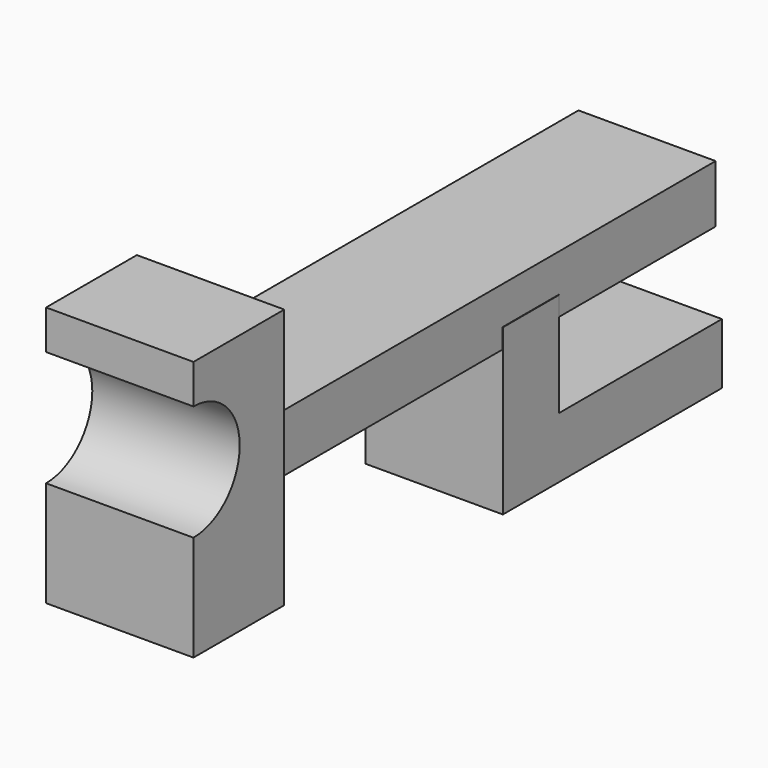
from build123d import *

# Parameters (mm, degrees)
F0_W      = 1114.6509647369
F0_H      = 96.1142629385
F1_DEPTH  = 228.5858858377
F2_W      = 117.198035121
F2_H      = 274.5957672596
F3_DEPTH  = 229.3333578855
F4_W      = 229.3333578855
F4_H      = 456.3540816307
F5_DEPTH  = 101.281305775
F6_W      = 189.0553534031
F6_H      = 433.8834732771
F7_DEPTH  = 245.6944454461
F8_R      = 96.273971764
F9_DEPTH  = 484.469877556
F11_D     = 12.7
F11_DEPTH = 12.7
F11_TIP   = 3.8154649308


with BuildPart() as f1:
    # F0 (on Right) → F1 (new body)
    with BuildSketch(Plane.YZ):
        with Locations((-113.2168769836, 15.1985660195)):
            Rectangle(F0_W, F0_H)
    extrude(amount=F1_DEPTH)

    # F2 (on Right) → F3 (join)
    with BuildSketch(Plane.YZ):
        with Locations((58.5990175605, -137.2978836298)):
            Rectangle(F2_W, F2_H)
    extrude(amount=F3_DEPTH)

    # F4 (on face) → F5 (join)
    with BuildSketch(Plane(origin=(0, 0, -274.5957672596), x_dir=(1, 0, 0), z_dir=(0, 0, -1))):
        with Locations((114.6666789427, -228.1770408154)):
            Rectangle(F4_W, F4_H)
    extrude(amount=-F5_DEPTH)

    # F6 (on Right) → F7 (join)
    with BuildSketch(Plane.YZ):
        with Locations((-570.4715698957, 7.9966709018)):
            Rectangle(F6_W, F6_H)
    extrude(amount=F7_DEPTH)

    # F8 (on face) → F9 (cut)
    with BuildSketch(Plane(origin=(0, 0, 0), x_dir=(0, -1, 0), z_dir=(-1, 0, 0))):
        with Locations((664.9992465973, 63.2556974888)):
            Circle(F8_R)
    extrude(amount=-F9_DEPTH, mode=Mode.SUBTRACT)

    # F11
    with Locations(Plane(origin=(0, 0, -274.5957672596), x_dir=(1, 0, 0), z_dir=(0, 0, -1))):
        with Locations((107.4657961726, -350.3691852093)):
            Hole(F11_D / 2, depth=F11_DEPTH)
            with Locations((0, 0, -(F11_DEPTH + F11_TIP / 2))):  # 118° drill point
                Cone(0, F11_D / 2, F11_TIP, mode=Mode.SUBTRACT)


solid = f1.part
